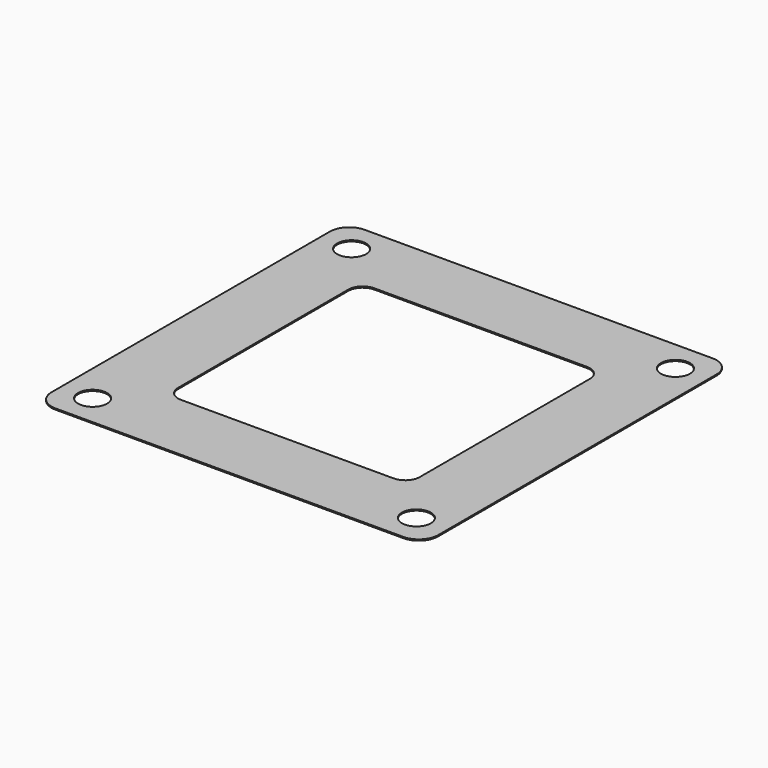
from build123d import *

# Parameters (mm, degrees)
F0_R     = 3
F1_DEPTH = 0.25


with BuildPart() as f1:
    # F0 (on Top) → F1 (new body)
    with BuildSketch(Plane.XY):
        with BuildLine():
            ThreePointArc((0, 4), (1.171573, 1.171573), (4, 0))
            Line((4, 0), (76, 0))
            ThreePointArc((76, 0), (78.828427, 1.171573), (80, 4))
            Line((80, 4), (80, 76))
            ThreePointArc((80, 76), (78.828427, 78.828427), (76, 80))
            Line((76, 80), (4, 80))
            ThreePointArc((4, 80), (1.171573, 78.828427), (0, 76))
            Line((0, 76), (0, 4))
        make_face()
        with Locations((6.5, 6.5)):
            Circle(F0_R, mode=Mode.SUBTRACT)
        with Locations((73.5, 6.5)):
            Circle(F0_R, mode=Mode.SUBTRACT)
        with BuildLine():
            ThreePointArc((15, 62), (15.87868, 64.12132), (18, 65))
            Line((18, 65), (62, 65))
            ThreePointArc((62, 65), (64.12132, 64.12132), (65, 62))
            Line((65, 62), (65, 18))
            ThreePointArc((65, 18), (64.12132, 15.87868), (62, 15))
            Line((62, 15), (18, 15))
            ThreePointArc((18, 15), (15.87868, 15.87868), (15, 18))
            Line((15, 18), (15, 62))
        make_face(mode=Mode.SUBTRACT)
        with Locations((6.5, 73.5)):
            Circle(F0_R, mode=Mode.SUBTRACT)
        with Locations((73.5, 73.5)):
            Circle(F0_R, mode=Mode.SUBTRACT)
    extrude(amount=F1_DEPTH)


solid = f1.part
